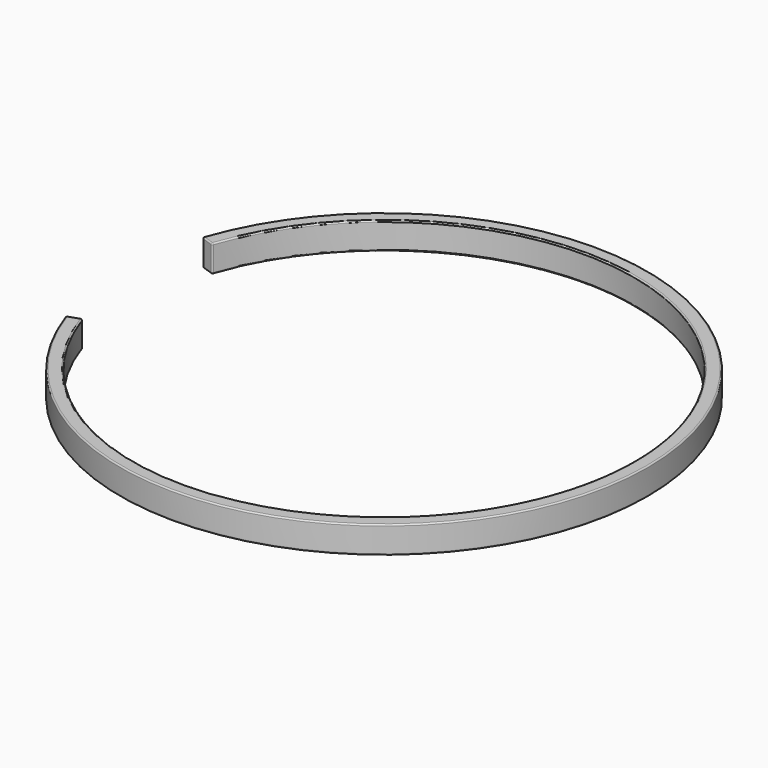
from build123d import *

# Parameters (mm, degrees)
F1_DEPTH = 1.016
F2_R     = 0.0508


with BuildPart() as f1:
    # F0 (on Top) → F1 (new body)
    with BuildSketch(Plane.XY):
        with BuildLine():
            Line((-8.880662, -3.036066), (-9.361347, -3.2004))
            ThreePointArc((-9.361347, -3.2004), (9.8933, 0), (-9.361347, 3.2004))
            Line((-9.361347, 3.2004), (-8.880662, 3.036066))
            ThreePointArc((-8.880662, 3.036066), (9.3853, 0), (-8.880662, -3.036066))
        make_face()
    extrude(amount=F1_DEPTH)

    # F2
    f2_edges = [f1.edges().sort_by_distance(p)[0] for p in [
        (9.3853, 0, 1.016),
        (9.8933, 0, 1.016),
        (9.8933, 0, 0),
        (9.3853, 0, 0),
        (-8.880662, -3.036066, 0.508),
        (-8.880662, 3.036066, 0.508),
        (-9.361347, 3.2004, 0.508),
        (-9.121005, 3.118233, 0),
        (-9.121005, 3.118233, 1.016),
        (-9.121005, -3.118233, 0),
        (-9.361347, -3.2004, 0.508),
        (-9.121005, -3.118233, 1.016),
    ]]
    fillet(f2_edges, radius=F2_R)


solid = f1.part
